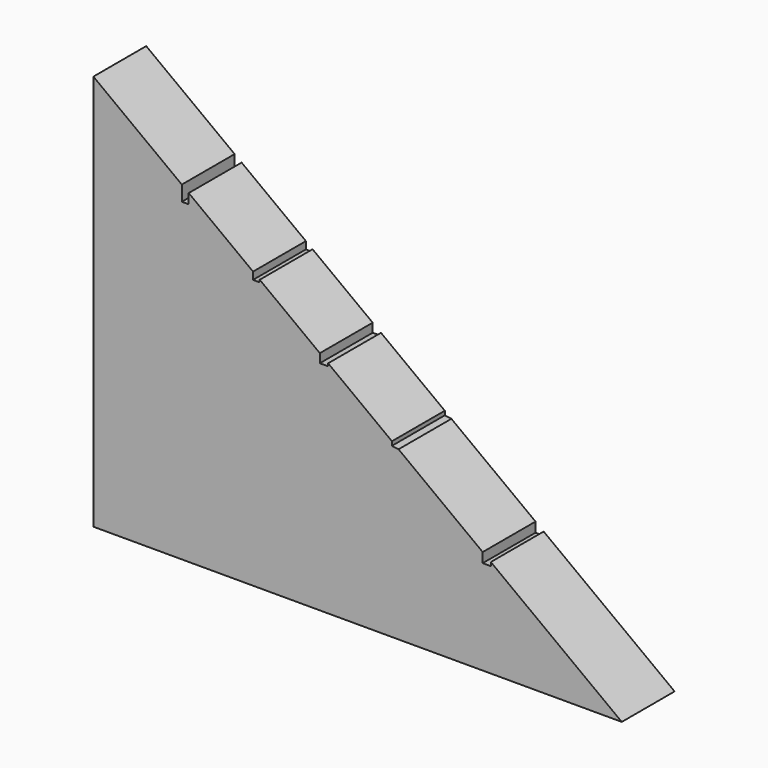
from build123d import *

# Parameters (mm, degrees)
F1_DEPTH = 25.4


with BuildPart() as f1:
    # F0 (on Front) → F1 (new body)
    with BuildSketch(Plane.XZ):
        Polygon((-34.587627, 39.812567), (-68.589919, 65.314286), (-68.589919, -87.085714), align=None)
        Polygon((81.122858, -46.970297), (-68.589919, -87.085714), (134.610081, -87.085714), (84.258229, -49.321825), (84.258229, -50.733879), (81.122858, -50.733879), align=None)
        Polygon((-34.587627, 39.812567), (-68.589919, -87.085714), (-7.189081, 19.263657), (-31.920042, 37.811878), (-31.920042, 33.991322), (-34.587627, 33.991322), align=None)
        Polygon((-7.189081, 19.263657), (-68.589919, -87.085714), (18.495796, 0), (-4.62309, 17.339164), (-4.62309, 16.45257), (-7.189081, 16.45257), align=None)
        Polygon((18.495796, 0), (-68.589919, -87.085714), (46.225291, -20.797122), (21.687223, -2.39357), (21.687223, -3.414334), (18.495796, -3.414334), align=None)
        Polygon((46.225291, -20.797122), (-68.589919, -87.085714), (81.122858, -46.970297), (48.765291, -22.702122), (46.225291, -22.35774), align=None)
    extrude(amount=F1_DEPTH)


solid = f1.part
